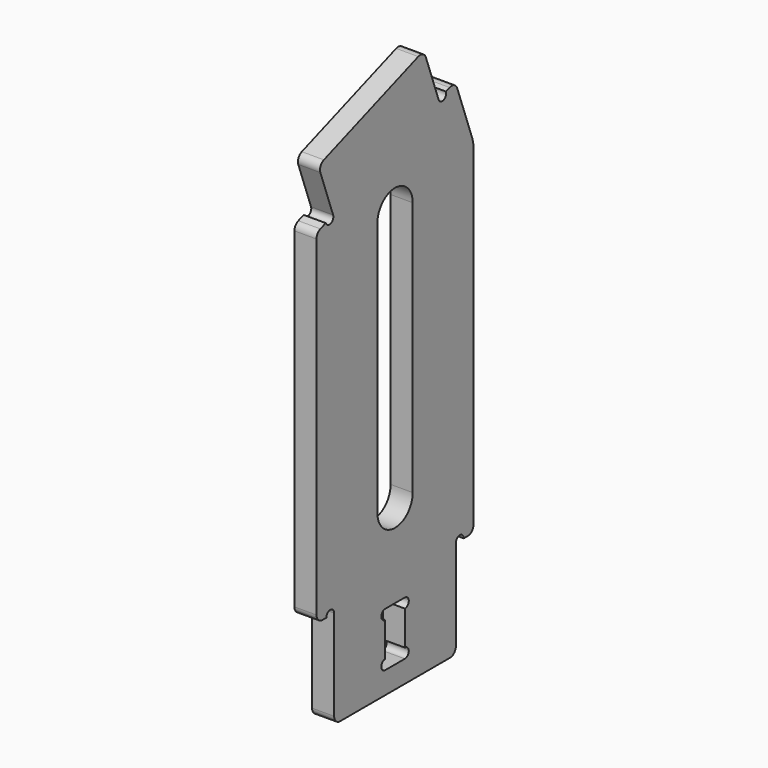
from build123d import *

# Parameters (mm, degrees)
PAD001_DEPTH = 4.5
FILLET_R     = 3
FILLET010_R  = 12


with BuildPart() as part:
    # Sketch001 → Pad001 (new body, symmetric)
    with BuildSketch(Plane.YZ):
        with BuildLine():
            Line((-31, -31), (31, -31))
            Line((31, -31), (31, 9))
            ThreePointArc((35, 9), (33, 11), (31, 9))
            Line((35, 9), (40, 9))
            Line((40, 9), (40, 149))
            Line((40, 149), (30.6417777248, 174.7115043875))
            Line((25.9433146208, 173.0014036708), (30.6417777248, 174.7115043875))
            ThreePointArc((22.1845441377, 171.6333230975), (24.7479696659, 170.4379781426), (25.9433146208, 173.0014036708))
            Line((22.1845441377, 171.6333230975), (14.6601009845, 192.3065607548))
            Line((14.6601009845, 192.3065607548), (-39.0672095661, 172.7514189472))
            Line((-39.0672095661, 172.7514189472), (-31.5427664129, 152.0781812899))
            ThreePointArc((-35.3015368961, 150.7101007166), (-32.7381113678, 149.5147557617), (-31.5427664129, 152.0781812899))
            Line((-35.3015368961, 150.7101007166), (-40, 149))
            Line((-40, 149), (-40, 9))
            Line((-35, 9), (-40, 9))
            ThreePointArc((-31, 9), (-33, 11), (-35, 9))
            Line((-31, 9), (-31, -31))
        make_face()
        with BuildLine():
            Line((-5, 0), (5, 0))
            ThreePointArc((5, -4), (7, -2), (5, 0))
            Line((5, -4), (5, -18))
            ThreePointArc((5, -22), (7, -20), (5, -18))
            Line((5, -22), (-5, -22))
            ThreePointArc((-5, -18), (-7, -20), (-5, -22))
            Line((-5, -18), (-5, -4))
            ThreePointArc((-5, 0), (-7, -2), (-5, -4))
        make_face(mode=Mode.SUBTRACT)
        with BuildLine():
            ThreePointArc((9, 140), (0, 149), (-9, 140))
            Line((-9, 140), (-9, 36))
            ThreePointArc((-9, 36), (0, 27), (9, 36))
            Line((9, 140), (9, 36))
        make_face(mode=Mode.SUBTRACT)
    extrude(amount=PAD001_DEPTH, both=True)

    # Fillet
    fillet_edges = [part.edges().sort_by_distance(p)[0] for p in [
        (0, 30.641778, 174.711504),
        (0, -40, 149),
        (0, -40, 9),
        (0, 40, 9),
        (0, 31, -31),
        (0, -31, -31),
        (0, -39.06721, 172.751419),
        (0, 14.660101, 192.306561),
    ]]
    fillet(fillet_edges, radius=FILLET_R)

    # Fillet010
    fillet010_edges = [part.edges().sort_by_distance(p)[0] for p in [
        (0, 40, 149),
    ]]
    fillet(fillet010_edges, radius=FILLET010_R)


solid = part.part
